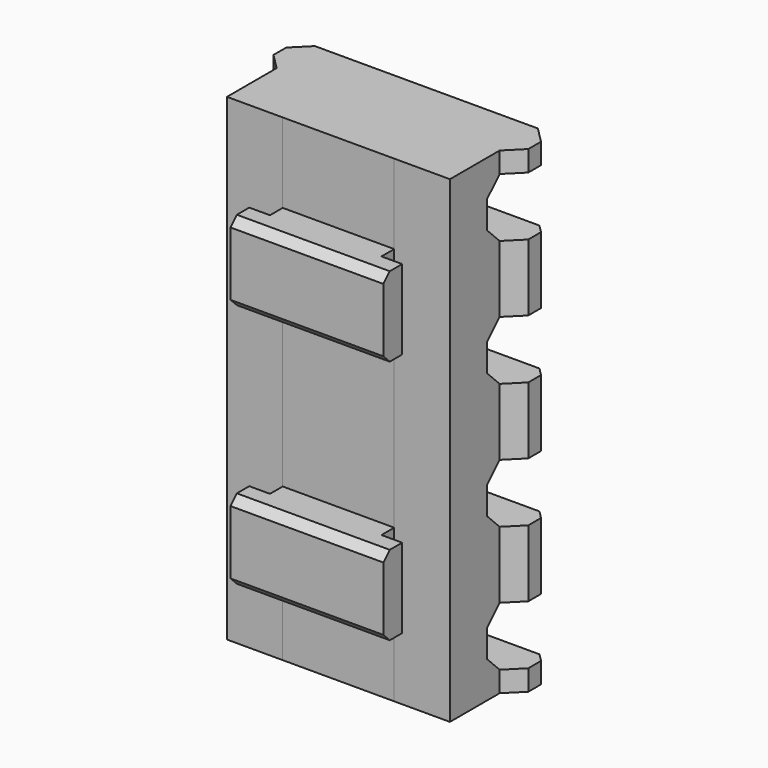
from build123d import *

# Parameters (mm, degrees)
F1_DEPTH = 38.1
F2_W     = 20.32
F2_H     = 4.699
F3_DEPTH = 5.08
F4_SIZE  = 1.27
F5_SIZE  = 0.635
F6_W     = 3.140959
F6_H     = 6.35
F6_H_2   = 13.208
F6_H_3   = 5.842
F7_DEPTH = 19.051
F8_SIZE  = 0.635


with BuildPart() as f1:
    # F0 (on Top) → F1 (new body)
    with BuildSketch(Plane.XY):
        Polygon((-1.27, 6.223), (0, 4.953), (17.78, 4.953), (19.05, 6.223), (19.05, 7.493), (17.78, 8.763), (8.89, 8.763), (0, 8.763), (-1.27, 7.493), align=None)
        Polygon((17.78, 4.953), (0, 4.953), (0, 0), (4.445, 0), (4.445, -1.27), (2.794, -1.27), (2.794, -3.140959), (8.89, -3.140959), (14.986, -3.140959), (14.986, -1.27), (13.335, -1.27), (13.335, 0), (17.78, 0), align=None)
    extrude(amount=F1_DEPTH)

    # F2 (on face) → F3 (cut)
    with BuildSketch(Plane(origin=(0, 8.763, 0), x_dir=(-1, 0, 0), z_dir=(0, 1, 0))):
        with Locations((-8.89, 34.0995)):
            Rectangle(F2_W, F2_H)
        with Locations((-8.89, 24.0665)):
            Rectangle(F2_W, F2_H)
        with Locations((-8.89, 14.0335)):
            Rectangle(F2_W, F2_H)
        with Locations((-8.89, 4.0005)):
            Rectangle(F2_W, F2_H)
    extrude(amount=-F3_DEPTH, mode=Mode.SUBTRACT)

    # F4
    f4_edges = [f1.edges().sort_by_distance(p)[0] for p in [
        (8.89, 3.683, 36.449),
        (8.89, 3.683, 31.75),
        (8.89, 3.683, 26.416),
        (8.89, 3.683, 21.717),
        (8.89, 3.683, 16.383),
        (8.89, 3.683, 11.684),
        (8.89, 3.683, 6.35),
        (8.89, 3.683, 1.651),
    ]]
    chamfer(f4_edges, length=F4_SIZE)

    # F5
    f5_edges = [f1.edges().sort_by_distance(p)[0] for p in [
        (8.89, 8.763, 31.75),
        (8.89, 8.763, 26.416),
        (8.89, 8.763, 21.717),
        (8.89, 8.763, 16.383),
        (8.89, 8.763, 11.684),
        (8.89, 8.763, 6.35),
        (8.89, 8.763, 1.651),
        (8.89, 8.763, 36.449),
    ]]
    chamfer(f5_edges, length=F5_SIZE)

    # F6 (on face) → F7 (cut, through all)
    with BuildSketch(Plane.YZ.offset(17.78)):
        with Locations((-1.57048, 34.925)):
            Rectangle(F6_W, F6_H)
        with Locations((-1.57048, 18.796)):
            Rectangle(F6_W, F6_H_2)
        with Locations((-1.57048, 2.921)):
            Rectangle(F6_W, F6_H_3)
    extrude(amount=-F7_DEPTH, mode=Mode.SUBTRACT)

    # F8
    f8_edges = [f1.edges().sort_by_distance(p)[0] for p in [
        (8.89, -3.140959, 31.75),
        (8.89, -3.140959, 12.192),
        (8.89, -3.140959, 25.4),
        (8.89, -3.140959, 5.842),
    ]]
    chamfer(f8_edges, length=F8_SIZE)


solid = f1.part
